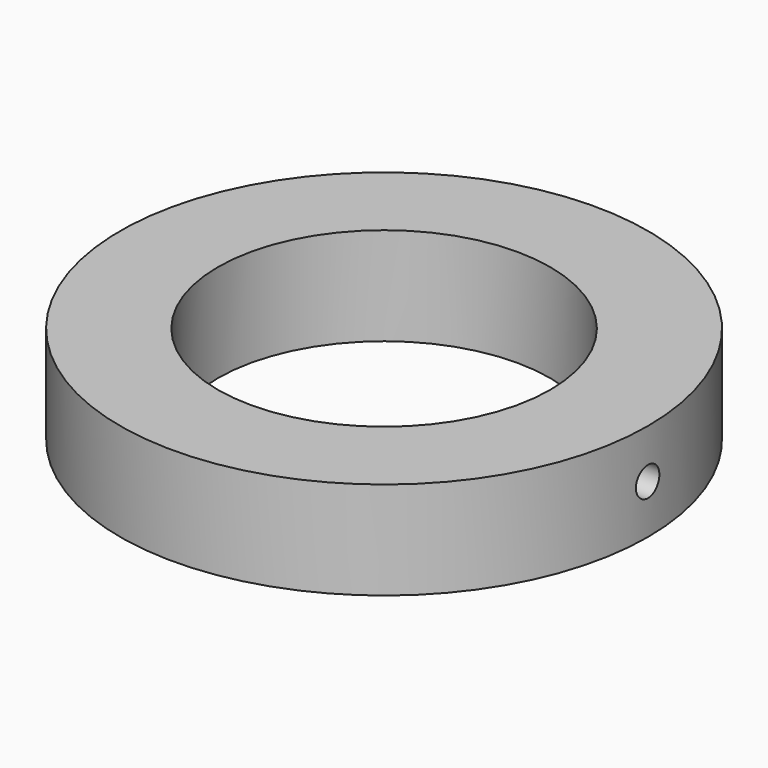
from build123d import *

# Parameters (mm, degrees)
F0_R     = 27
F0_R_2   = 17
F1_DEPTH = 10
F3_R     = 1.5
F4_DEPTH = 5


with BuildPart() as f1:
    # F0 (on Top) → F1 (new body)
    with BuildSketch(Plane.XY):
        Circle(F0_R)
        Circle(F0_R_2, mode=Mode.SUBTRACT)
    extrude(amount=F1_DEPTH)

    # F3 (on offset) → F4 (cut)
    with BuildSketch(Plane.YZ.offset(27)):
        with Locations((0, 5)):
            Circle(F3_R)
    extrude(amount=-F4_DEPTH, mode=Mode.SUBTRACT)


solid = f1.part
